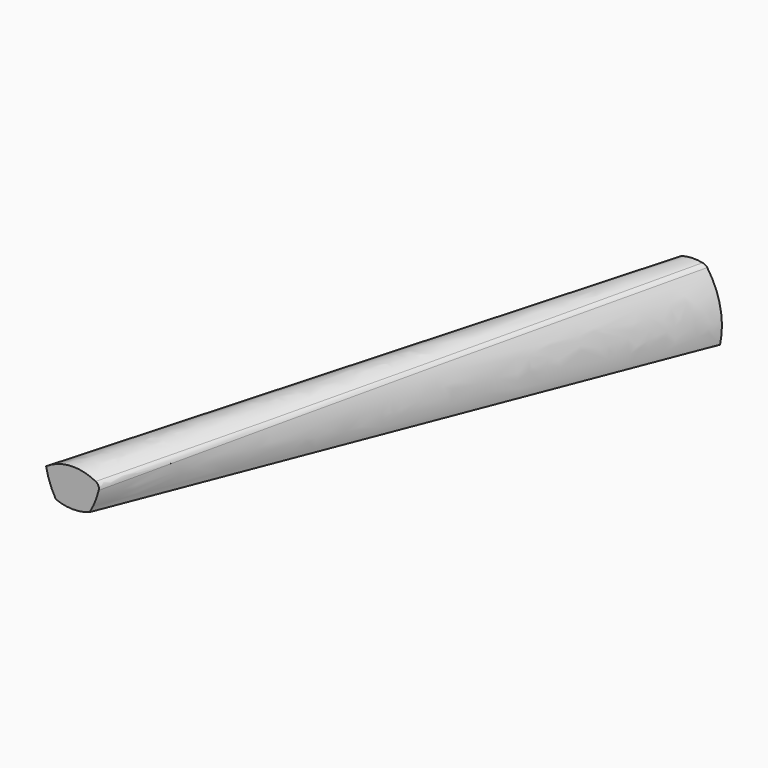
from build123d import *

# Parameters (mm, degrees)
F4_R = 20


with BuildPart() as f3:
    # F0 (on Front) → F3 section 0
    with BuildSketch(Plane.XZ):
        with BuildLine():
            ThreePointArc((50, 121.0509895272), (50.0865695268, 212.6648876477), (11.8783708075, 295.9310114541))
            ThreePointArc((11.8783708075, 295.9310114541), (-20, 300), (-51.8783708075, 295.9310114541))
            ThreePointArc((-51.8783708075, 295.9310114541), (-90.0865695268, 212.6648876477), (-90, 121.0509895272))
            ThreePointArc((-90, 121.0509895272), (-20, 100), (50, 121.0509895272))
        make_face()
    # F2 (on offset) → F3 section 1
    with BuildSketch(Plane.XZ.offset(1000)):
        with BuildLine():
            ThreePointArc((-826.8684139464, -149.838788357), (-810.4542950494, -115.6410672236), (-800.2728698805, -79.1000490193))
            ThreePointArc((-800.2728698805, -79.1000490193), (-871.6893152622, -57.6929389994), (-942.8033198489, -80.0842628104))
            ThreePointArc((-942.8033198489, -80.0842628104), (-932.7943314348, -115.6754881769), (-916.8648659769, -149.0396501233))
            ThreePointArc((-916.8648659769, -149.0396501233), (-871.9398589265, -157.6849103787), (-826.8684139464, -149.838788357))
        make_face()
    loft()

    # F4
    f4_edges = [f3.edges().sort_by_distance(p)[0] for p in [
        (-394.19725, -500, 108.415481),
    ]]
    fillet(f4_edges, radius=F4_R)


solid = f3.part
